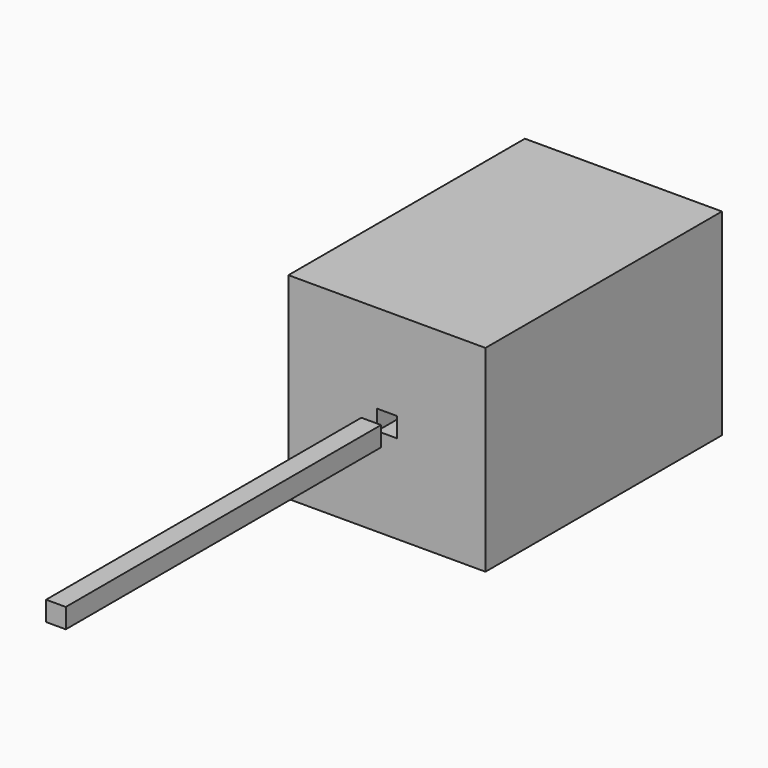
from build123d import *

# Parameters (mm, degrees)
F0_W     = 1
F0_H     = 20
F1_DEPTH = 1
F0_W_2   = 10
F0_H_2   = 15
F2_DEPTH = 10
F3_W     = 1
F3_H     = 1
F4_DEPTH = 25


with BuildPart() as f1:
    # F0 (on Top) → F1 (new body)
    with BuildSketch(Plane.XY):
        with Locations((-39.691859, 2.754338)):
            Rectangle(F0_W, F0_H)
    extrude(amount=F1_DEPTH)


with BuildPart() as f2:
    # F0 (on Top) → F2 (new body)
    with BuildSketch(Plane.XY):
        with Locations((-39.691859, 21.254338)):
            Rectangle(F0_W_2, F0_H_2)
    extrude(amount=F2_DEPTH)

    # F3 (on face) → F4 (cut)
    with BuildSketch(Plane.XZ.offset(-13.754338)):
        with Locations((-39.691859, 5)):
            Rectangle(F3_W, F3_H)
    extrude(amount=-F4_DEPTH, mode=Mode.SUBTRACT)


with BuildPart() as f1_1:
    # F5: moved
    add(f1.part.moved(Location((0, 0, 4.5))))


solid = Compound([f2.part, f1_1.part])
